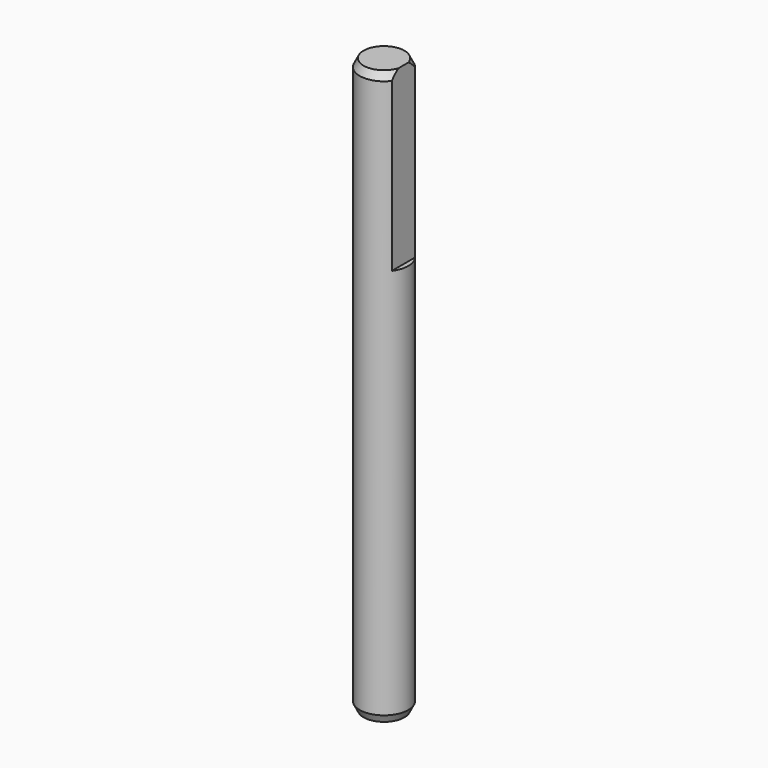
from build123d import *

# Parameters (mm, degrees)
SKETCH012_R      = 2.5
PAD006_DEPTH     = 59
POCKET003_DEPTH  = 18
CHAMFER002_SIZE2 = 0.4
CHAMFER002_SIZE  = 0.8


with BuildPart() as part:
    # Sketch012 → Pad006 (new body)
    with BuildSketch(Plane.XY):
        Circle(SKETCH012_R)
    extrude(amount=PAD006_DEPTH)

    # Sketch013 (on Face3 of Pad006) → Pocket003 (cut)
    with BuildSketch(Plane.XY.offset(59)):
        with BuildLine():
            ThreePointArc((2, -1.5), (2.5, 0), (2, 1.5))
            Line((2, 1.5), (2, -1.5))
        make_face()
    extrude(amount=-POCKET003_DEPTH, mode=Mode.SUBTRACT)

    # Chamfer002
    chamfer002_edges = [part.edges().sort_by_distance(p)[0] for p in [
        (-2.5, 0, 59),
        (-2.5, 0, 0),
    ]]
    chamfer002_side = part.faces().sort_by_distance((-2.5, 0, 29.5))[0]
    chamfer(chamfer002_edges, length=CHAMFER002_SIZE, length2=CHAMFER002_SIZE2, reference=chamfer002_side)


with BuildPart() as part_1:
    # Body003 placement: moved
    add(part.part.moved(Location((0, 0, 2.8))))


solid = part_1.part
